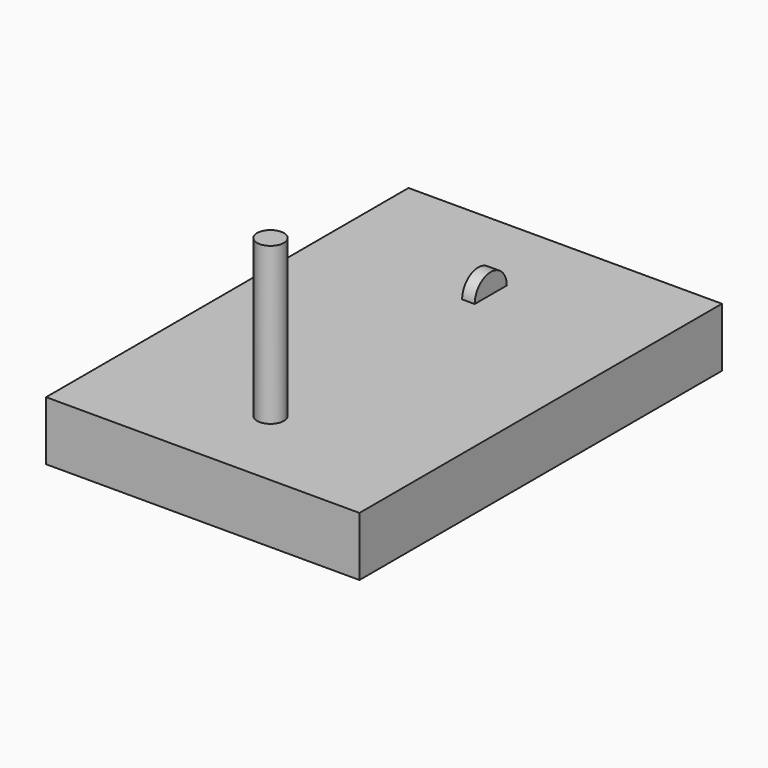
from build123d import *

# Parameters (mm, degrees)
F0_W     = 72.277866
F0_H     = 9.427548
F1_DEPTH = 25
F2_R     = 2.140903
F3_DEPTH = 25
F4_R     = 3.199453
F5_DEPTH = 1


with BuildPart() as f1:
    # F0 (on Right) → F1 (new body, symmetric)
    with BuildSketch(Plane.YZ):
        Rectangle(F0_W, F0_H)
    extrude(amount=F1_DEPTH, both=True)

    # F2 (on face) → F3 (join)
    with BuildSketch(Plane.XY.offset(4.713774)):
        with Locations((0, -22.634452)):
            Circle(F2_R)
    extrude(amount=F3_DEPTH)

    # F4 (on Right) → F5 (join, symmetric)
    with BuildSketch(Plane.YZ):
        with Locations((20.03381, 4.713774)):
            Circle(F4_R)
    extrude(amount=F5_DEPTH, both=True)


solid = f1.part
